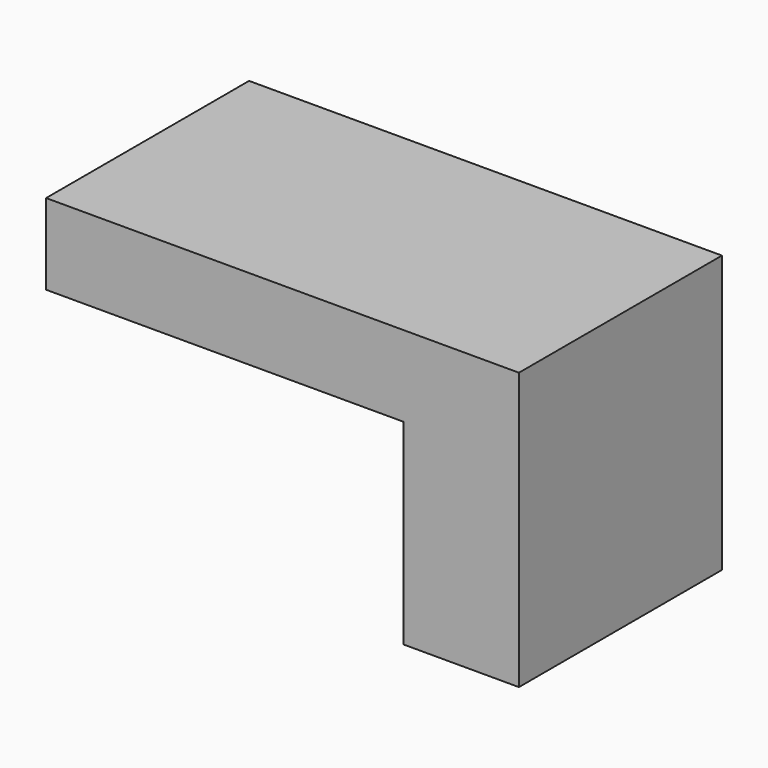
from build123d import *

# Parameters (mm, degrees)
SKETCH_W     = 41
SKETCH_H     = 22
PAD_DEPTH    = 7
SKETCH001_W  = 10
SKETCH001_H  = 22
PAD001_DEPTH = 17


with BuildPart() as part:
    # Sketch → Pad (new body)
    with BuildSketch(Plane.XY):
        with Locations((20.5, 11)):
            Rectangle(SKETCH_W, SKETCH_H)
    extrude(amount=PAD_DEPTH)

    # Sketch001 → Pad001 (new body)
    with BuildSketch(Plane(origin=(0, 0, 0), x_dir=(1, 0, 0), z_dir=(0, 0, -1))):
        with Locations((36, -11)):
            Rectangle(SKETCH001_W, SKETCH001_H)
    extrude(amount=PAD001_DEPTH)


solid = part.part
